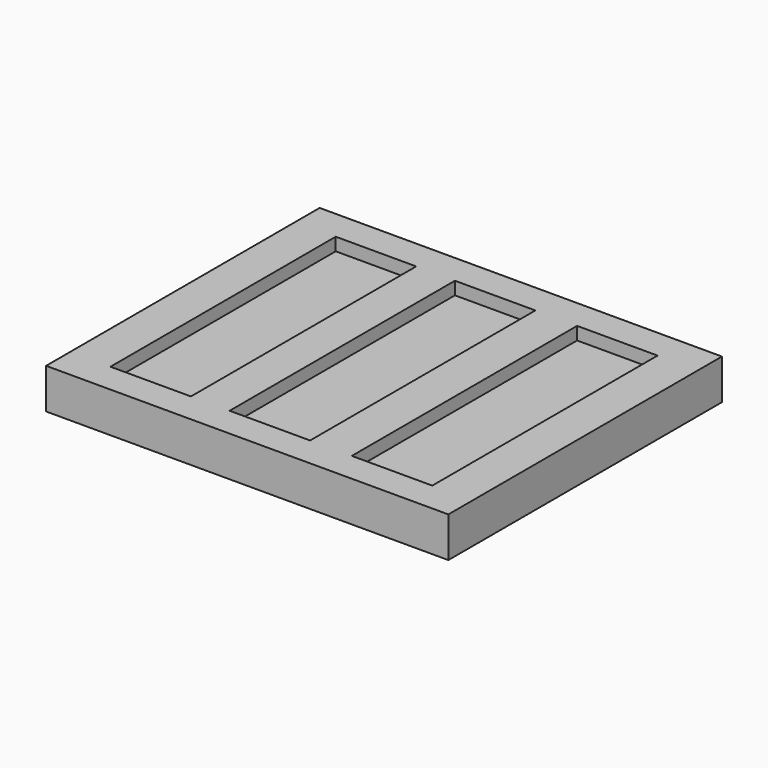
from build123d import *

# Parameters (mm, degrees)
F0_W     = 100
F0_H     = 85
F1_DEPTH = 10
F3_W     = 20
F3_H     = 70
F4_DEPTH = 3.2


with BuildPart() as f1:
    # F0 (on Top) → F1 (new body)
    with BuildSketch(Plane.XY):
        Rectangle(F0_W, F0_H)
    extrude(amount=F1_DEPTH)

    # F3 (on face) → F4 (cut)
    with BuildSketch(Plane.XY.offset(10)):
        with Locations((-30, 0)):
            Rectangle(F3_W, F3_H)
        with Locations((-0.374221, 0)):
            Rectangle(F3_W, F3_H)
        with Locations((30, 0)):
            Rectangle(F3_W, F3_H)
    extrude(amount=-F4_DEPTH, mode=Mode.SUBTRACT)


solid = f1.part
